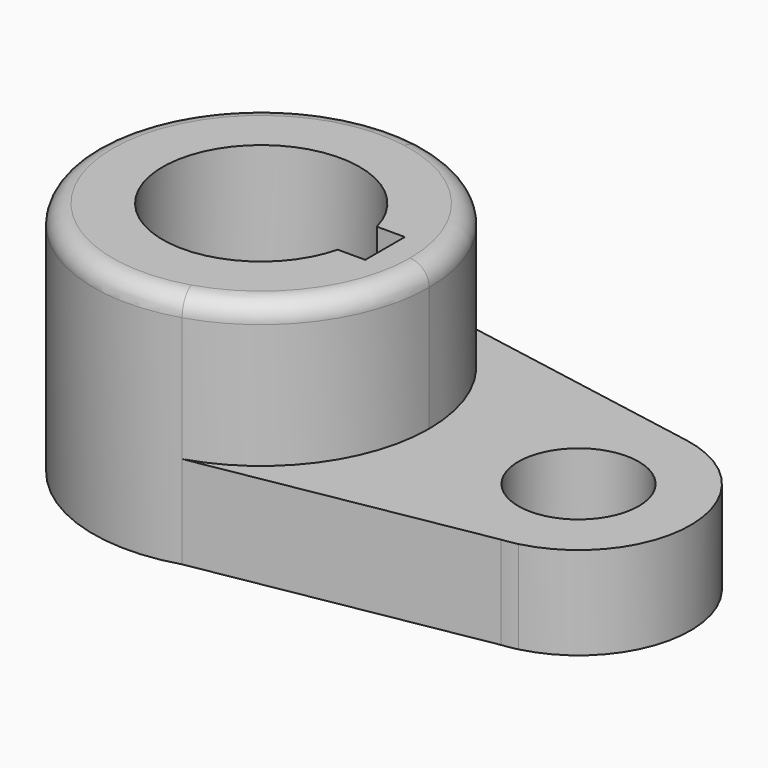
from build123d import *

# Parameters (mm, degrees)
F0_R     = 16.762017
F0_R_2   = 10.2415
F1_DEPTH = 15.7734
F2_DEPTH = 40.2336
F4_DEPTH = 57.912
F5_R     = 3.302


with BuildPart() as f1:
    # F0 (on Top) → F1 (new body)
    with BuildSketch(Plane.XY):
        with BuildLine():
            ThreePointArc((8.398844, -27.312818), (22.98399, -16.978422), (28.575, 0))
            ThreePointArc((28.575, 0), (21.916025, 18.336262), (5.042647, 28.126541))
            ThreePointArc((5.042647, 28.126541), (-28.522782, -1.726717), (8.398844, -27.312818))
        make_face()
        Circle(F0_R, mode=Mode.SUBTRACT)
        with BuildLine():
            ThreePointArc((5.042647, 28.126541), (21.916025, 18.336262), (28.575, 0))
            ThreePointArc((28.575, 0), (22.98399, -16.978422), (8.398844, -27.312818))
            Line((8.398844, -27.312818), (55.972016, -18.945037))
            Line((55.972016, -18.945037), (58.562435, -18.489401))
            ThreePointArc((58.562435, -18.489401), (73.014691, 0.626641), (57.336765, 18.751028))
            Line((57.336765, 18.751028), (5.042647, 28.126541))
        make_face()
        with Locations((53.975, 0)):
            Circle(F0_R_2, mode=Mode.SUBTRACT)
        with BuildLine():
            Line((58.562435, -18.489401), (55.972016, -18.945037))
            ThreePointArc((55.972016, -18.945037), (57.275098, -18.761979), (58.562435, -18.489401))
        make_face()
    extrude(amount=F1_DEPTH)

    # F0 (on Top) → F2 (join)
    with BuildSketch(Plane.XY):
        with BuildLine():
            ThreePointArc((8.398844, -27.312818), (22.98399, -16.978422), (28.575, 0))
            ThreePointArc((28.575, 0), (21.916025, 18.336262), (5.042647, 28.126541))
            ThreePointArc((5.042647, 28.126541), (-28.522782, -1.726717), (8.398844, -27.312818))
        make_face()
        Circle(F0_R, mode=Mode.SUBTRACT)
    extrude(amount=F2_DEPTH)

    # F3 (on face) → F4 (cut)
    with BuildSketch(Plane.XY.offset(40.2336)):
        with BuildLine():
            Line((20.948661, 4.355739), (16.18619, 4.355739))
            ThreePointArc((16.18619, 4.355739), (16.617437, 2.196818), (16.762017, 0))
            ThreePointArc((16.762017, 0), (16.6366, -2.046642), (16.262227, -4.062657))
            Line((16.262227, -4.062657), (20.948661, -4.062657))
            Line((20.948661, -4.062657), (20.948661, 4.355739))
        make_face()
    extrude(amount=-F4_DEPTH, mode=Mode.SUBTRACT)

    # F5
    f5_edges = [f1.edges().sort_by_distance(p)[0] for p in [
        (-8.398844, 27.312818, 40.2336),
    ]]
    fillet(f5_edges, radius=F5_R)


solid = f1.part
